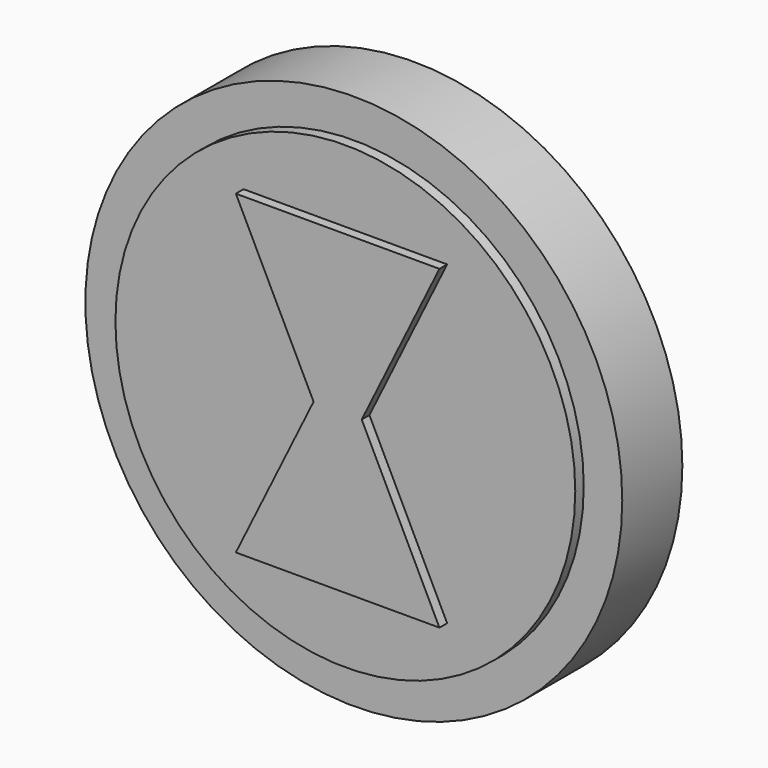
from build123d import *

# Parameters (mm, degrees)
F0_R     = 70.804177
F0_R_2   = 60.644177
F1_DEPTH = 9.906
F2_DEPTH = 12.7
F3_DEPTH = 15.24


with BuildPart() as f1:
    # F0 (on Front) → F1 (new body, symmetric)
    with BuildSketch(Plane.XZ):
        Circle(F0_R)
        Circle(F0_R_2, mode=Mode.SUBTRACT)
    extrude(amount=F1_DEPTH, both=True)

    # F0 (on Front) → F2 (join, symmetric)
    with BuildSketch(Plane.XZ):
        Circle(F0_R_2)
        Polygon((-6.35, 0), (-26.848431, 41.6581), (26.848444, 41.6581), (6.35, 0), (26.84843, -41.658109), (-26.84843, -41.658109), align=None, mode=Mode.SUBTRACT)
    extrude(amount=F2_DEPTH, both=True)

    # F0 (on Front) → F3 (join)
    with BuildSketch(Plane.XZ):
        Polygon((26.848444, 41.6581), (-26.848431, 41.6581), (-6.35, 0), (-26.84843, -41.658109), (26.84843, -41.658109), (6.35, 0), align=None)
    extrude(amount=F3_DEPTH)


solid = f1.part
